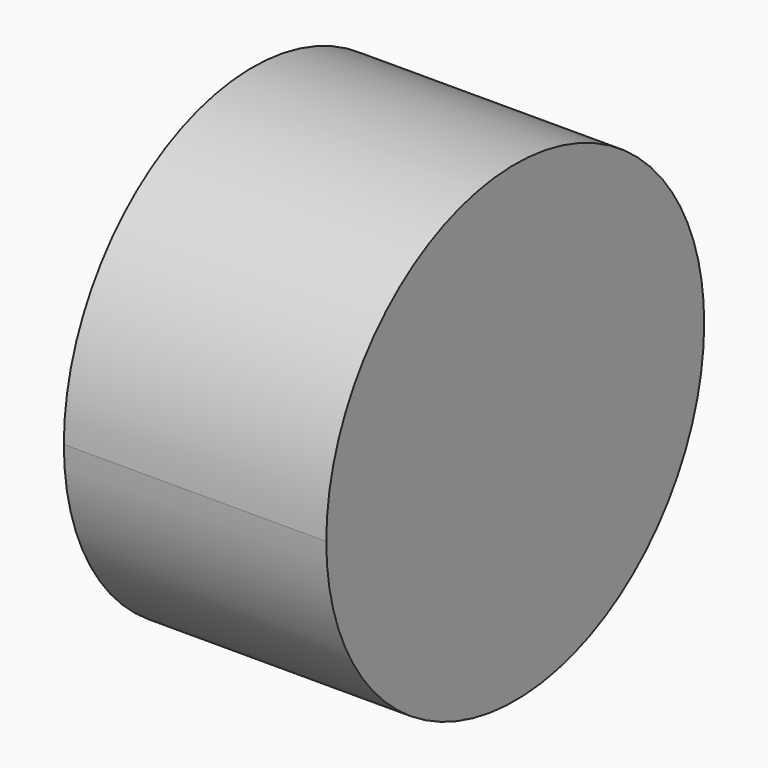
from build123d import *

# Parameters (mm, degrees)
F1_DEPTH = 20


with BuildPart() as f1:
    # F0 (on Right) → F1 (new body)
    with BuildSketch(Plane.YZ):
        with BuildLine():
            ThreePointArc((-42.802762, 29.730134), (-24.802762, 11.730134), (-6.802762, 29.730134))
            ThreePointArc((-6.802762, 29.730134), (-7.585462, 34.98033), (-9.865492, 39.773935))
            ThreePointArc((-9.865492, 39.773935), (-30.052959, 46.947434), (-42.802762, 29.730134))
        make_face()
    extrude(amount=F1_DEPTH)


solid = f1.part
